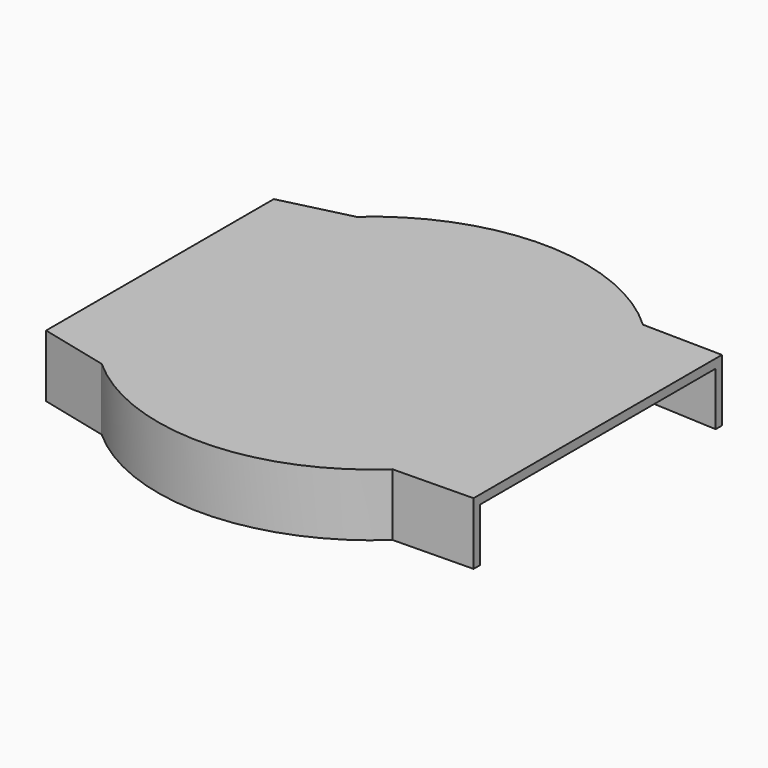
from build123d import *

# Parameters (mm, degrees)
PAD_DEPTH    = 7
POCKET_DEPTH = 6


with BuildPart() as part:
    # Sketch → Pad (new body)
    with BuildSketch(Plane.XY):
        with BuildLine():
            Line((-23.833245, 16), (-23.833245, -16))
            Line((-23.833245, -16), (-16.062145, -17.9))
            ThreePointArc((-16.062145, -17.9), (0.222316, -24.048972), (16.390317, -17.6))
            Line((16.390317, -17.6), (25.389067, -17.45))
            Line((25.389067, 17.45), (25.389067, -17.45))
            Line((16.390317, 17.6), (25.389067, 17.45))
            ThreePointArc((16.390317, 17.6), (0.222316, 24.048972), (-16.062145, 17.9))
            Line((-23.833245, 16), (-16.062145, 17.9))
        make_face()
    extrude(amount=PAD_DEPTH)

    # Sketch001 → Pocket (cut)
    with BuildSketch(Plane.XY):
        with BuildLine():
            Line((-16.329115, 16.9), (-25.652205, 15.7))
            Line((-25.652205, 15.7), (-25.652205, -15.7))
            Line((-25.652205, -15.7), (-16.329115, -16.9))
            ThreePointArc((-16.329115, -16.9), (-0.108455, -23.49975), (16.17243, -17.05))
            Line((16.17243, -17.05), (25.659263, -16.55))
            Line((25.659263, 16.55), (25.659263, -16.55))
            Line((16.17243, 17.05), (25.659263, 16.55))
            ThreePointArc((16.17243, 17.05), (-0.108455, 23.49975), (-16.329115, 16.9))
        make_face()
    extrude(amount=POCKET_DEPTH, mode=Mode.SUBTRACT)


solid = part.part
